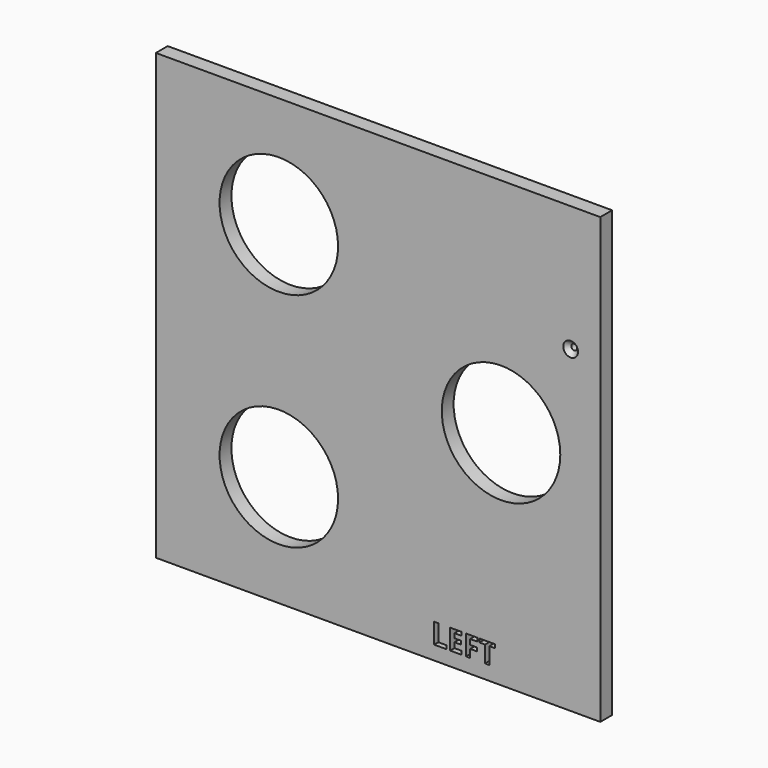
from build123d import *

# Parameters (mm, degrees)
F0_W     = 300
F0_H     = 300
F0_R     = 40
F0_R_2   = 2
F1_DEPTH = 10
F2_SIZE  = 3


with BuildPart() as f1:
    # F0 (on Front) → F1 (new body)
    with BuildSketch(Plane.XZ):
        with Locations((-1.2706946582, 1.5530716628)):
            Rectangle(F0_W, F0_H)
        with Locations((-68.2706946582, -73.4469283372)):
            Circle(F0_R, mode=Mode.SUBTRACT)
        Polygon((44.9743842894, -139.0171051025), (36.5401775311, -139.0171051025), (36.5401775311, -125.3615804114), (39.4362605746, -125.3615804114), (39.4362605746, -136.6261180697), (44.9743842894, -136.6261180697), align=None, mode=Mode.SUBTRACT)
        Polygon((55.2107975236, -136.6261180697), (55.2107975236, -139.0171051025), (47.3474389194, -139.0171051025), (47.3474389194, -125.3615804114), (55.2107975236, -125.3615804114), (55.2107975236, -127.7346350414), (50.2435219629, -127.7346350414), (50.2435219629, -130.7323350338), (54.8670931376, -130.7323350338), (54.8670931376, -133.1053896639), (50.2435219629, -133.1053896639), (50.2435219629, -136.6261180697), align=None, mode=Mode.SUBTRACT)
        Polygon((60.9073241293, -133.619451876), (60.9073241293, -139.0171051025), (58.0590608265, -139.0171051025), (58.0590608265, -125.3615804114), (65.8865546251, -125.3615804114), (65.8865546251, -127.7346350414), (60.9073241293, -127.7346350414), (60.9073241293, -131.2553634473), (65.5398615054, -131.2553634473), (65.5398615054, -133.619451876), align=None, mode=Mode.SUBTRACT)
        Polygon((73.8276203079, -127.7704998469), (73.8276203079, -139.0171051025), (70.9315372644, -139.0171051025), (70.9315372644, -127.7704998469), (67.2225186297, -127.7704998469), (67.2225186297, -125.3615804114), (77.5336502088, -125.3615804114), (77.5336502088, -127.7704998469), align=None, mode=Mode.SUBTRACT)
        with Locations((-68.2706946582, 76.5530716628)):
            Circle(F0_R, mode=Mode.SUBTRACT)
        with Locations((81.7293053418, 1.5530716628)):
            Circle(F0_R, mode=Mode.SUBTRACT)
        with Locations((128.7293053418, 66.5530716628)):
            Circle(F0_R_2, mode=Mode.SUBTRACT)
    extrude(amount=F1_DEPTH)

    # F2
    f2_edges = [f1.edges().sort_by_distance(p)[0] for p in [
        (126.729305, -10, 66.553072),
    ]]
    chamfer(f2_edges, length=F2_SIZE)


solid = f1.part
